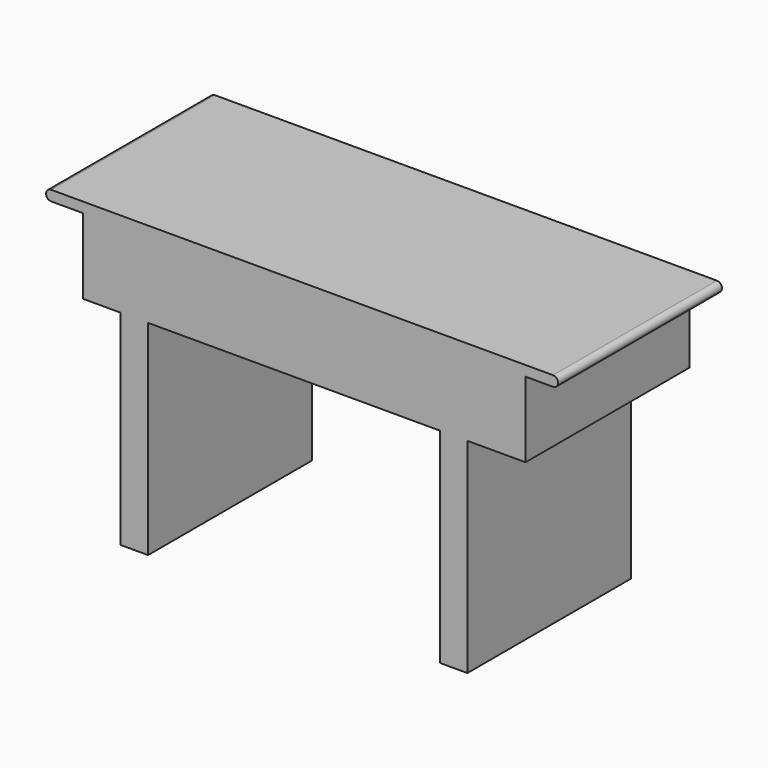
from build123d import *

# Parameters (mm, degrees)
F1_DEPTH = 600


with BuildPart() as f1:
    # F0 (on Front) → F1 (new body)
    with BuildSketch(Plane.XZ):
        with BuildLine():
            Line((745.904529, 41.689509), (-724.095471, 41.689509))
            ThreePointArc((-724.095471, 41.689509), (-739.095471, 26.689509), (-724.095471, 11.689509))
            Line((-724.095471, 11.689509), (-630.465329, 11.689509))
            Line((-630.465329, 11.689509), (-630.465329, -209.190384))
            Line((-630.465329, -209.190384), (-520.363688, -209.190384))
            Line((-520.363688, -209.190384), (-520.363688, -808.310491))
            Line((-520.363688, -808.310491), (-440.363688, -808.310491))
            Line((-440.363688, -808.310491), (-440.363688, -209.190384))
            Line((-440.363688, -209.190384), (415.151983, -209.190384))
            Line((415.151983, -209.190384), (415.151983, -808.310491))
            Line((415.151983, -808.310491), (495.151983, -808.310491))
            Line((495.151983, -808.310491), (495.151983, -209.190384))
            Line((495.151983, -209.190384), (665.567935, -209.190384))
            Line((665.567935, -209.190384), (665.567935, 11.689509))
            Line((665.567935, 11.689509), (745.904529, 11.689509))
            ThreePointArc((745.904529, 11.689509), (760.904529, 26.689509), (745.904529, 41.689509))
        make_face()
    extrude(amount=F1_DEPTH)


solid = f1.part
